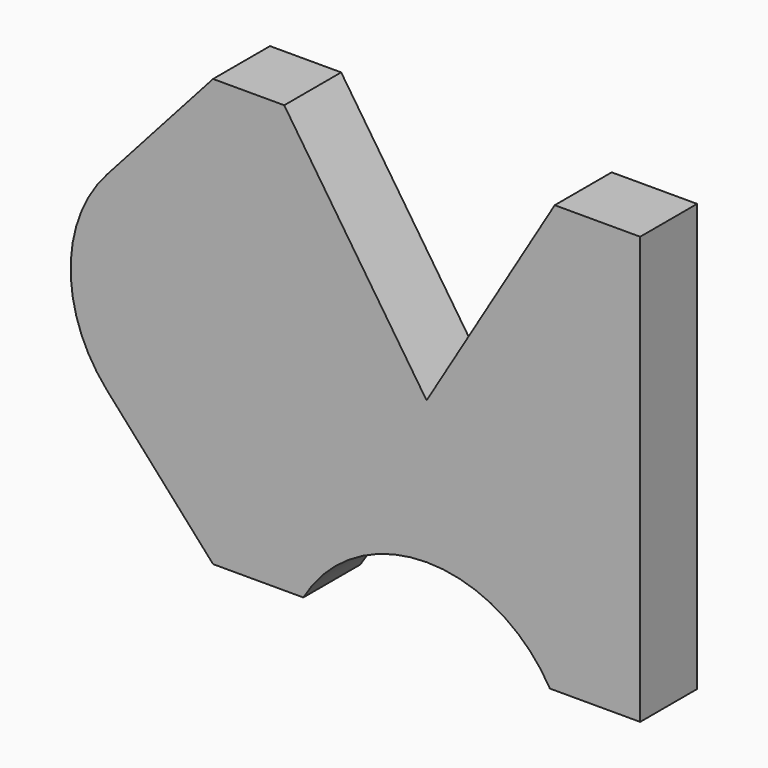
from build123d import *

# Parameters (mm, degrees)
F1_DEPTH = 10


with BuildPart() as f1:
    # F0 (on Front) → F1 (new body)
    with BuildSketch(Plane.XZ):
        with BuildLine():
            Line((30, 30), (18, 30))
            Line((18, 30), (0, 0))
            Line((0, 0), (-20, 30))
            Line((-20, 30), (-30, 30))
            Line((-30, 30), (-44.90712, 13.333333))
            ThreePointArc((-44.90712, 13.333333), (-50, 0), (-44.90712, -13.333333))
            Line((-44.90712, -13.333333), (-30, -30))
            Line((-30, -30), (-17.320508, -30))
            ThreePointArc((-17.320508, -30), (0, -20), (17.320508, -30))
            Line((17.320508, -30), (30, -30))
            Line((30, -30), (30, 30))
        make_face()
    extrude(amount=F1_DEPTH)


solid = f1.part
